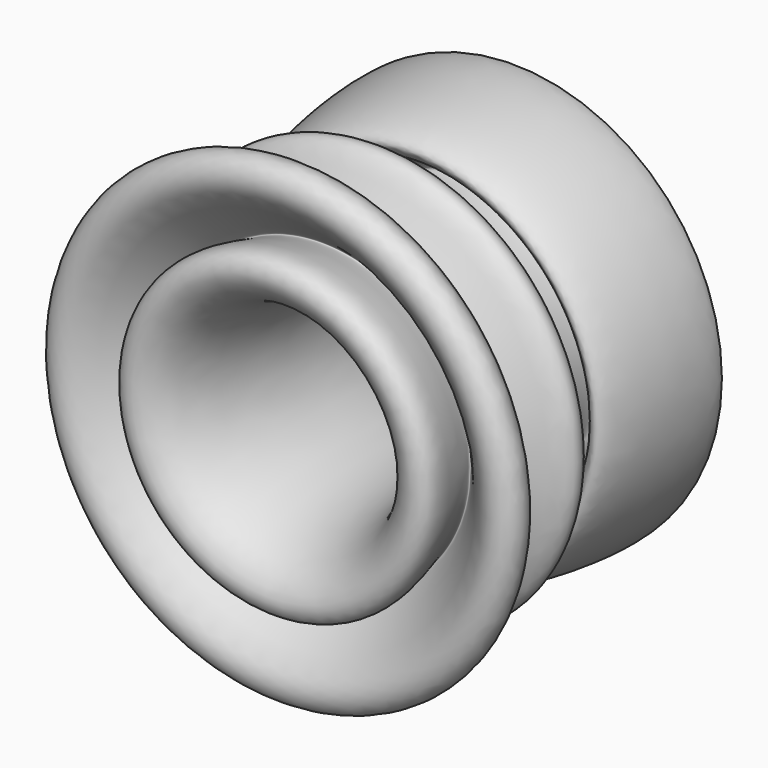
from build123d import *


with BuildPart() as f2:
    # F0 (on Top) → F2 (revolve)
    with BuildSketch(Plane.XY):
        with BuildLine():
            add(Edge.make_bspline(
                [(54.8239648342, 57.5552731752), (40.0551949916, 12.0919580438), (49.3665384219, -89.00749515), (97.3205450287, -87.0872831082), (69.0749739488, -23.7700706044), (116.6999134038, -98.1422269831), (145.6126459707, -62.2898619666), (63.1086930129, -37.6459868484), (127.1799123356, -23.07218547), (103.8410296226, 4.2140516485), (67.8091929844, -70.6259298852), (61.7639068685, 114.818353969), (109.3584093567, -43.6658256935), (124.6248209942, 129.5568405101), (94.3886781495, 21.6580543975), (93.9163156926, 116.6890943483), (63.3910771969, 83.9277695483), (54.8239648342, 57.5552731752)],
                knots=[0, 0, 0, 0, 0.1180171914, 0.16254143, 0.2185012603, 0.2889051721, 0.3317247478, 0.4030696982, 0.4598683773, 0.4974595817, 0.5573636158, 0.6497282719, 0.7227620789, 0.8083454666, 0.8678352405, 0.9315402332, 1, 1, 1, 1], degree=3))
        make_face()
    revolve(axis=Axis((0, 335.2304697037, 0), (0, -1, 0)))


solid = f2.part
